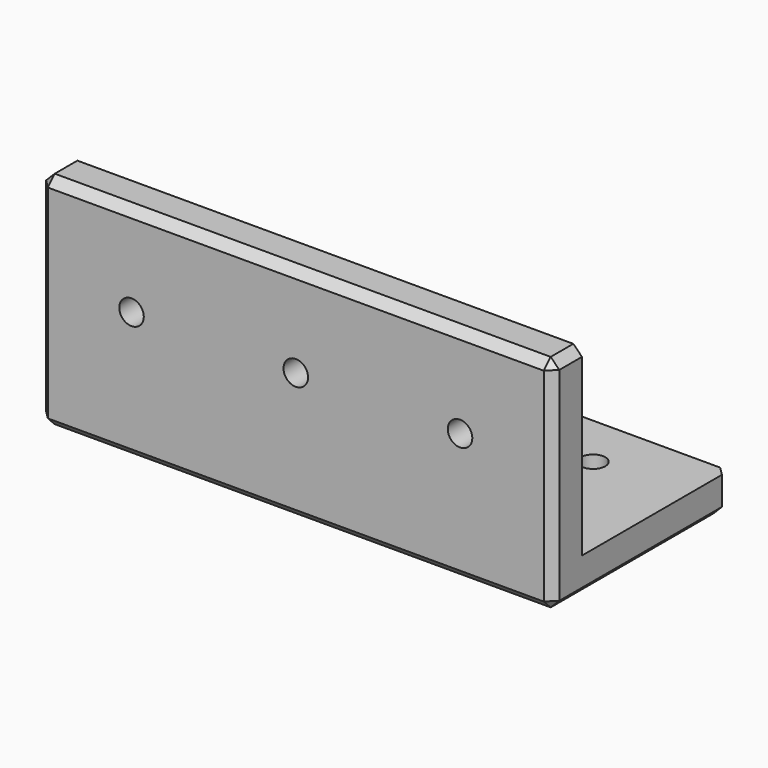
from build123d import *

# Parameters (mm, degrees)
F0_W     = 88.9
F0_H     = 31.8
F0_R     = 2.125
F1_DEPTH = 6.4
F2_W     = 88.9
F2_H     = 38.2
F2_R     = 2.125
F3_DEPTH = 6.4
F4_SIZE  = 1.5


with BuildPart() as f1:
    # F0 (on Top) → F1 (new body)
    with BuildSketch(Plane.XY):
        Rectangle(F0_W, F0_H)
        with Locations((-28.45, 6.5)):
            Circle(F0_R, mode=Mode.SUBTRACT)
        with Locations((0, 6.5)):
            Circle(F0_R, mode=Mode.SUBTRACT)
        with Locations((28.45, 6.5)):
            Circle(F0_R, mode=Mode.SUBTRACT)
    extrude(amount=F1_DEPTH)

    # F2 (on face) → F3 (join)
    with BuildSketch(Plane.XZ.offset(15.9)):
        with Locations((0, 19.1)):
            Rectangle(F2_W, F2_H)
        with Locations((-28.45, 22.4)):
            Circle(F2_R, mode=Mode.SUBTRACT)
        with Locations((0, 22.4)):
            Circle(F2_R, mode=Mode.SUBTRACT)
        with Locations((28.45, 22.4)):
            Circle(F2_R, mode=Mode.SUBTRACT)
    extrude(amount=F3_DEPTH)

    # F4
    f4_edges = [f1.edges().sort_by_distance(p)[0] for p in [
        (0, -22.3, 38.2),
        (0, -22.3, 0),
        (0, 15.9, 0),
        (44.45, -3.2, 0),
        (44.45, 15.9, 3.2),
        (-44.45, 15.9, 3.2),
        (-44.45, -3.2, 0),
        (-44.45, -22.3, 19.1),
        (44.45, -22.3, 19.1),
        (-44.45, -19.1, 38.2),
        (44.45, -19.1, 38.2),
    ]]
    chamfer(f4_edges, length=F4_SIZE)


solid = f1.part
